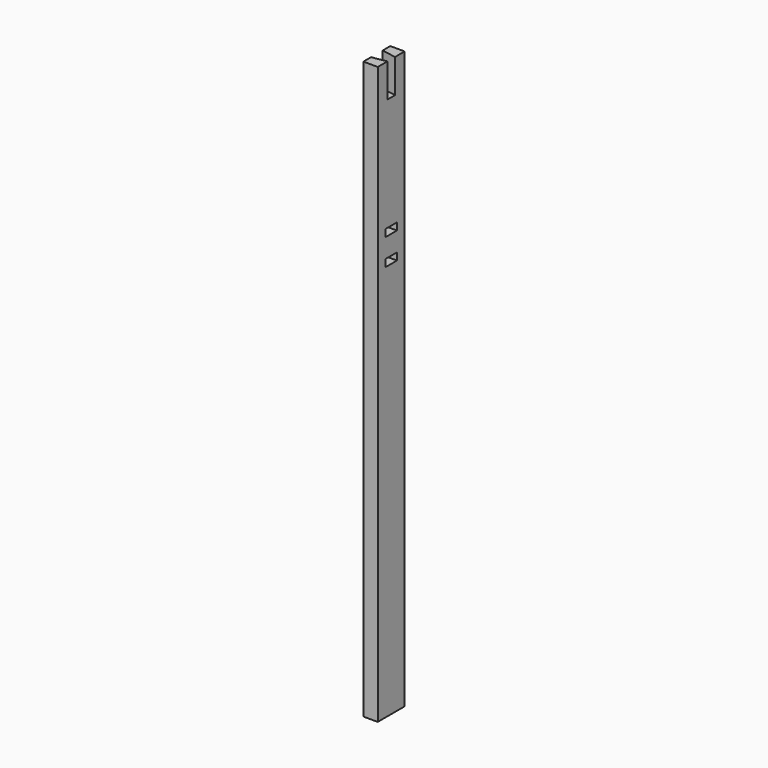
from build123d import *

# Parameters (mm, degrees)
F0_W     = 38.1
F0_H     = 88.9
F1_DEPTH = 1524
F2_W     = 38.1
F2_H     = 19.05
F3_DEPTH = 38.1
F5_DEPTH = 88.9


with BuildPart() as f1:
    # F0 (on Top) → F1 (new body)
    with BuildSketch(Plane.XY):
        with Locations((19.05, 44.45)):
            Rectangle(F0_W, F0_H)
    extrude(amount=F1_DEPTH)

    # F2 (on face) → F3 (cut, through all)
    with BuildSketch(Plane.YZ.offset(38.1)):
        with Locations((44.45, 1127.125)):
            Rectangle(F2_W, F2_H)
        with Locations((44.45, 1057.275)):
            Rectangle(F2_W, F2_H)
    extrude(amount=-F3_DEPTH, mode=Mode.SUBTRACT)

    # F4 (on face) → F5 (cut)
    with BuildSketch(Plane.XY.offset(1524)):
        Polygon((0, 63.5), (0, 25.4), (38.1, 31.75), (38.1, 57.15), align=None)
    extrude(amount=-F5_DEPTH, mode=Mode.SUBTRACT)


solid = f1.part
